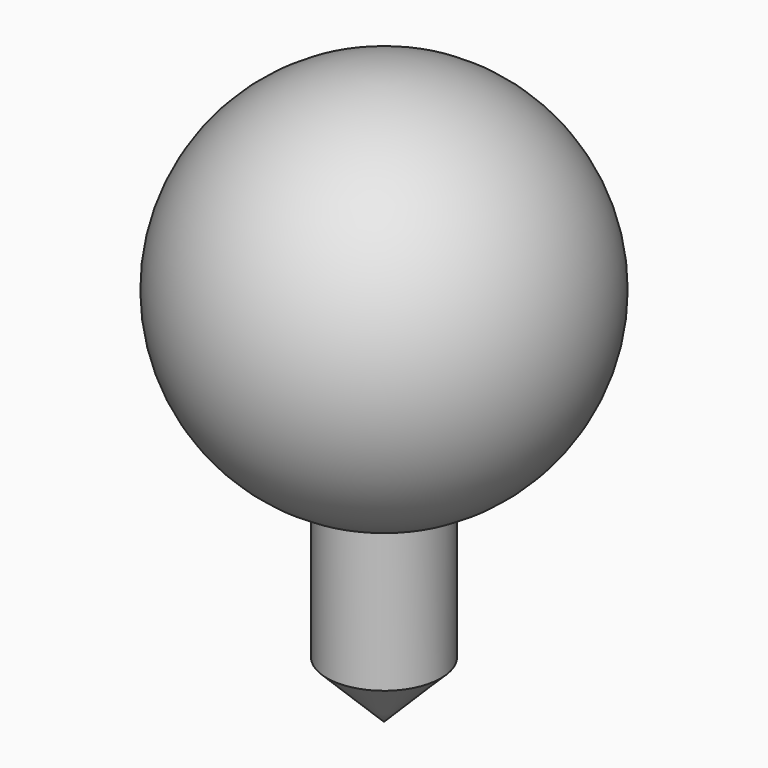
from build123d import *

# Parameters (mm, degrees)
F2_R     = 19.05
F3_DEPTH = 127
F4_SIZE  = 19.05


with BuildPart() as f1:
    # F0 (on Front) → F1 (revolve)
    with BuildSketch(Plane.XZ):
        with BuildLine():
            Line((0, 0), (0, 63.5))
            ThreePointArc((0, 63.5), (-63.5, 0), (0, -63.5))
            Line((0, -63.5), (0, 0))
        make_face()
    revolve(axis=Axis((0, 0, 31.75), (0, 0, 1)))

    # F2 (on Top) → F3 (join)
    with BuildSketch(Plane.XY):
        Circle(F2_R)
    extrude(amount=-F3_DEPTH)

    # F4
    f4_edges = [f1.edges().sort_by_distance(p)[0] for p in [
        (-19.05, 0, -127),
    ]]
    chamfer(f4_edges, length=F4_SIZE)


solid = f1.part
